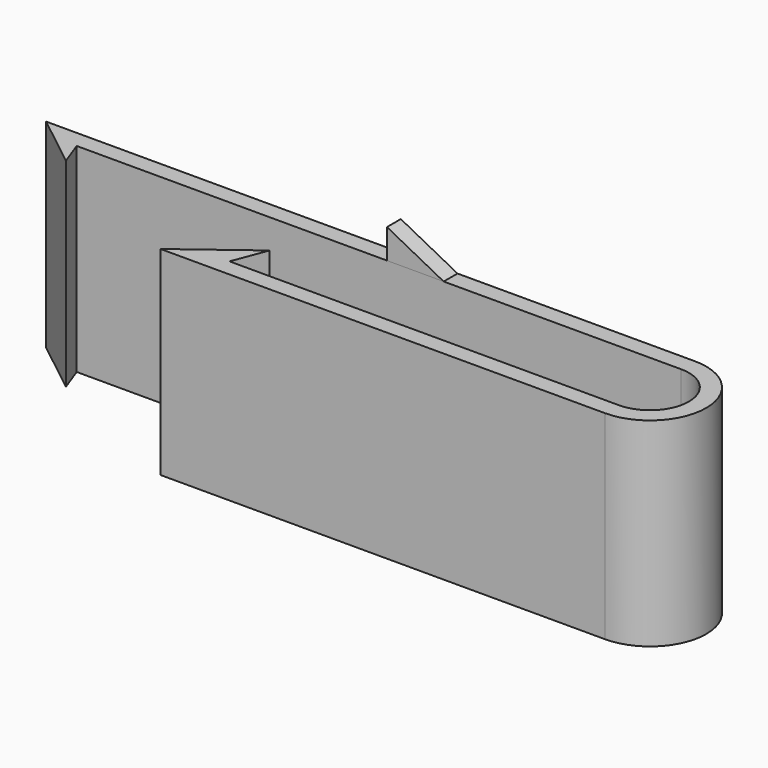
from build123d import *

# Parameters (mm, degrees)
F1_DEPTH = 23
F3_DEPTH = 2


with BuildPart() as f1:
    # F0 (on Top) → F1 (new body)
    with BuildSketch(Plane.XY):
        with BuildLine():
            Line((-46.50076, 16.101427), (-47.552661, 18.970158))
            Line((-47.552661, 18.970158), (22.311499, 18.970158))
            ThreePointArc((22.311499, 18.970158), (26.811499, 14.470158), (22.311499, 9.970158))
            Line((22.311499, 9.970158), (-22.688501, 9.970158))
            Line((-22.688501, 9.970158), (-21.203749, 13.881953))
            Line((-21.203749, 13.881953), (-29.062928, 7.970158))
            Line((-29.062928, 7.970158), (22.311499, 7.970158))
            ThreePointArc((22.311499, 7.970158), (28.811499, 14.470158), (22.311499, 20.970158))
            Line((22.311499, 20.970158), (-52.688501, 20.970158))
            Line((-52.688501, 20.970158), (-46.50076, 16.101427))
        make_face()
    extrude(amount=F1_DEPTH)


with BuildPart() as f3:
    # F2 (on face) → F3 (new body)
    with BuildSketch(Plane(origin=(0, 20.970158, 0), x_dir=(-1, 0, 0), z_dir=(0, 1, 0))):
        Polygon((5.132779, 23), (11.688501, 23), (11.688501, 26.411502), align=None)
    extrude(amount=-F3_DEPTH)


solid = Compound([f1.part, f3.part])
